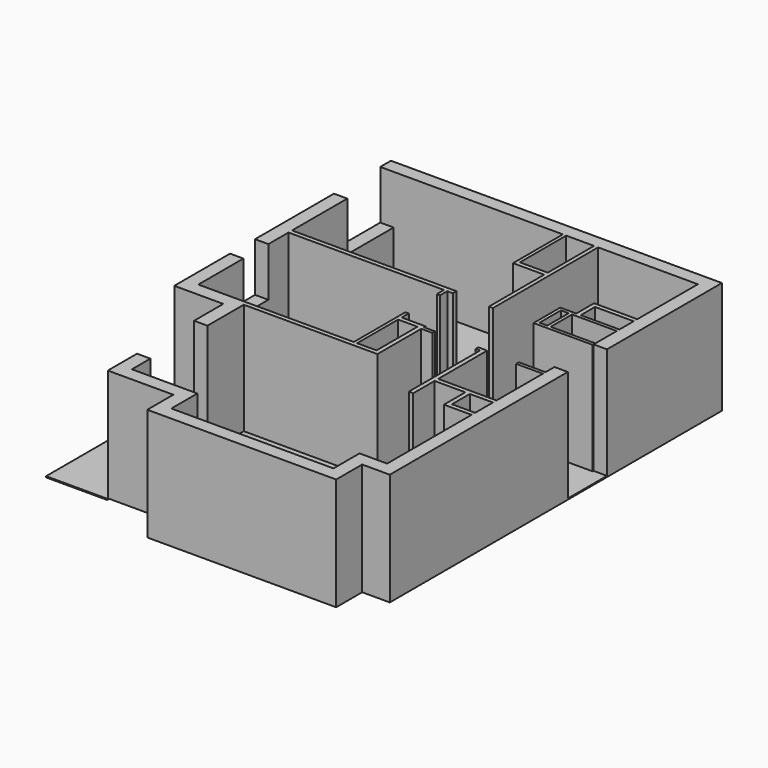
from build123d import *

# Parameters (mm, degrees)
F1_DEPTH  = 2500
F3_DEPTH  = 25
F4_W      = 1370
F4_H      = 3260
F5_DEPTH  = 25
F6_W      = 435
F6_H      = 1150
F7_DEPTH  = 2500
F9_DEPTH  = 2500
F8_W      = 600
F8_H      = 75
F8_W_2    = 175
F8_H_2    = 600
F10_W     = 300
F10_H     = 1600
F10_H_2   = 1100
F11_DEPTH = 2500
F10_H_3   = 700
F10_H_4   = 1300
F12_DEPTH = 1100
F13_W     = 620
F13_H     = 2370
F14_DEPTH = 1200
F15_W     = 1800
F15_H     = 1100
F16_DEPTH = 1800.001


with BuildPart() as f1:
    # F0 (on Top) → F1 (new body)
    with BuildSketch(Plane.XY):
        Polygon((300, 300), (-7130, 300), (-7130, -5780), (-6030, -5780), (-6030, -9020), (-4560, -9020), (-4560, -9750), (-320, -9750), (-320, -9020), (300, -9020), align=None)
        Polygon((-6830, 0), (0, 0), (0, -8720), (-620, -8720), (-620, -9450), (-4260, -9450), (-4260, -8720), (-5730, -8720), (-5730, -5480), (-6830, -5480), align=None, mode=Mode.SUBTRACT)
    extrude(amount=F1_DEPTH)

    # F2 (on face) → F3 (join)
    with BuildSketch(Plane(origin=(0, 0, 0), x_dir=(1, 0, 0), z_dir=(0, 0, -1))):
        Polygon((-7130, 5780), (-7130, -300), (300, -300), (300, 9020), (-320, 9020), (-320, 9750), (-4560, 9750), (-4560, 9020), (-6030, 9020), (-6030, 5780), align=None)
    extrude(amount=F3_DEPTH)

    # F6 (on face) → F7 (join, through all)
    with BuildSketch(Plane.XY.offset(2500)):
        Polygon((-6830, -2850), (-6830, -2950), (-3340, -2950), (-3340, -3150), (-3265, -3150), (-3265, -2950), (-3140, -2950), (-3140, -2850), align=None)
        Polygon((-3340, -5480), (-5730, -5480), (-5730, -5580), (-2730, -5580), (-2730, -4350), (-2480, -4350), (-2480, -4275), (-2730, -4275), (-2730, -4230), (-3265, -4230), (-3265, -4030), (-3340, -4030), (-3340, -4230), align=None)
        with Locations((-3047.5, -4905)):
            Rectangle(F6_W, F6_H, mode=Mode.SUBTRACT)
        Polygon((-2240, 0), (-2330, 0), (-2330, -1300), (-2955, -1300), (-2955, 0), (-3030, 0), (-3030, -1400), (-2330, -1400), (-2330, -2950), (-2240, -2950), align=None)
    extrude(amount=-F7_DEPTH)

    # F10 (on face) → F11 (cut)
    with BuildSketch(Plane.XY.offset(2500)):
        with Locations((-5880, -7400)):
            Rectangle(F10_W, F10_H)
        with Locations((150, -3475)):
            Rectangle(F10_W, F10_H_2)
    extrude(amount=-F11_DEPTH, mode=Mode.SUBTRACT)

    # F10 (on face) → F12 (cut)
    with BuildSketch(Plane.XY.offset(2500)):
        with Locations((150, -3475)):
            Rectangle(F10_W, F10_H_2)
        with Locations((-5880, -7400)):
            Rectangle(F10_W, F10_H)
        with Locations((-6980, -3865)):
            Rectangle(F10_W, F10_H_3)
        with Locations((-6980, -650)):
            Rectangle(F10_W, F10_H_4)
    extrude(amount=-F12_DEPTH, mode=Mode.SUBTRACT)


with BuildPart() as f5:
    # F4 (on face) → F5 (new body)
    with BuildSketch(Plane(origin=(0, 0, -25), x_dir=(1, 0, 0), z_dir=(0, 0, -1))):
        with Locations((-6715, 7410)):
            Rectangle(F4_W, F4_H)
    extrude(amount=F5_DEPTH)


with BuildPart() as f9:
    # F8 (on face) → F9 (new body, through all)
    with BuildSketch(Plane.XY.offset(2500)):
        Polygon((-620, -6350), (0, -6350), (0, -6250), (-520, -6250), (-520, -5750), (0, -5750), (0, -5650), (-1310, -5650), (-1310, -4275), (-1510, -4275), (-1510, -4350), (-1410, -4350), (-1410, -6350), (-1310, -6350), (-1310, -5750), (-620, -5750), align=None)
    extrude(amount=-F9_DEPTH)


with BuildPart() as f9b:
    # F8 (on face) → F9, piece 2 (new body, through all)
    with BuildSketch(Plane.XY.offset(2500)):
        with Locations((-300, -4312.5)):
            Rectangle(F8_W, F8_H)
    extrude(amount=-F9_DEPTH)


with BuildPart() as f9c:
    # F8 (on face) → F9, piece 3 (new body, through all)
    with BuildSketch(Plane.XY.offset(2500)):
        Polygon((-1005, -2275), (0, -2275), (0, -2200), (-870, -2200), (-870, -1800), (0, -1800), (0, -1700), (-970, -1700), (-970, -2200), (-1330, -2200), (-1330, -2950), (0, -2950), (0, -2875), (-1005, -2875), align=None)
        with Locations((-1167.5, -2575)):
            Rectangle(F8_W_2, F8_H_2, mode=Mode.SUBTRACT)
    extrude(amount=-F9_DEPTH)


with BuildPart() as f14:
    # F13 (on face) → F14 (new body)
    with BuildSketch(Plane.XY):
        with Locations((-310, -7535)):
            Rectangle(F13_W, F13_H)
    extrude(amount=F14_DEPTH)


with BuildPart() as f14b:
    # F13 (on face) → F14, piece 2 (new body)
    with BuildSketch(Plane.XY):
        Polygon((-620, -9450), (-620, -8720), (-1620, -8720), (-1620, -7550), (-2420, -7550), (-2420, -9450), align=None)
    extrude(amount=F14_DEPTH)

    # F15 (on face) → F16 (cut, through all)
    with BuildSketch(Plane(origin=(-2420, 0, 0), x_dir=(0, -1, 0), z_dir=(-1, 0, 0))):
        with Locations((8550, 550)):
            Rectangle(F15_W, F15_H)
    extrude(amount=-F16_DEPTH, mode=Mode.SUBTRACT)


solid = Compound([f1.part, f5.part, f9.part, f9b.part, f9c.part, f14.part, f14b.part])
